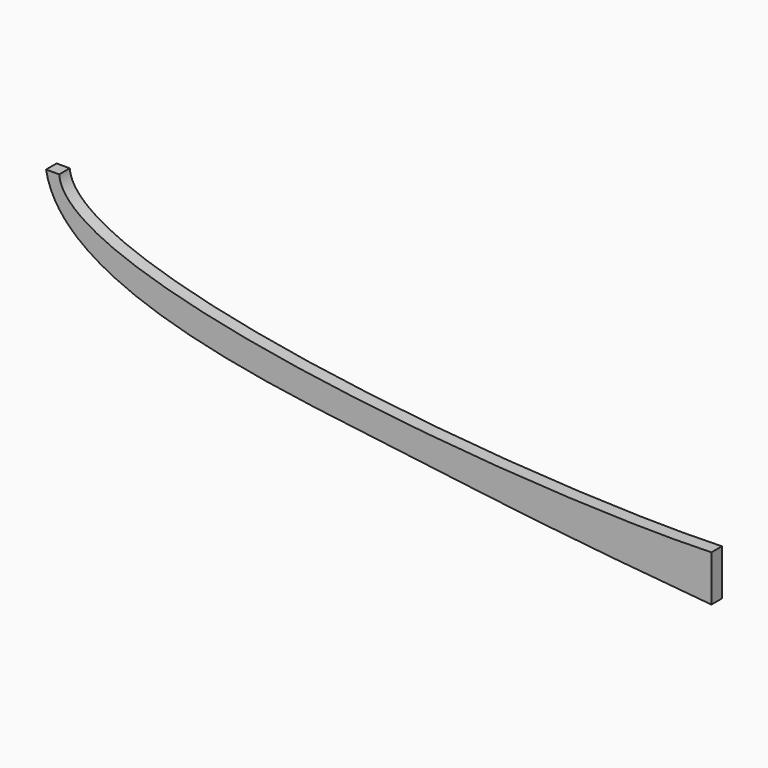
from build123d import *

# Parameters (mm, degrees)
F1_DEPTH = 10


with BuildPart() as f1:
    # F0 (on Front) → F1 (new body)
    with BuildSketch(Plane.XZ):
        with BuildLine():
            Line((-11.6095862986, 0), (-21.6095862986, 0))
            add(Edge.make_bspline(
                [(-21.6095862986, 0), (-9.4574506075, -71.1175899318), (285.3069392789, -103.7383871619), (348.3084465537, -114.7108461615), (483.3904137014, -126.5151666224)],
                knots=[0, 0, 0, 0, 0.5072558747, 1, 1, 1, 1], degree=3))
            Line((483.3904137014, -126.5151666224), (483.3904137014, -91.6073024273))
            add(Edge.make_bspline(
                [(-11.6095862986, 0), (-7.0090275258, -65.5499398708), (335.1793193817, -96.2777882814), (483.3904137014, -91.6073024273)],
                knots=[0, 0, 0, 0, 503.4053017778, 503.4053017778, 503.4053017778, 503.4053017778], degree=3))
        make_face()
    extrude(amount=F1_DEPTH)


solid = f1.part
